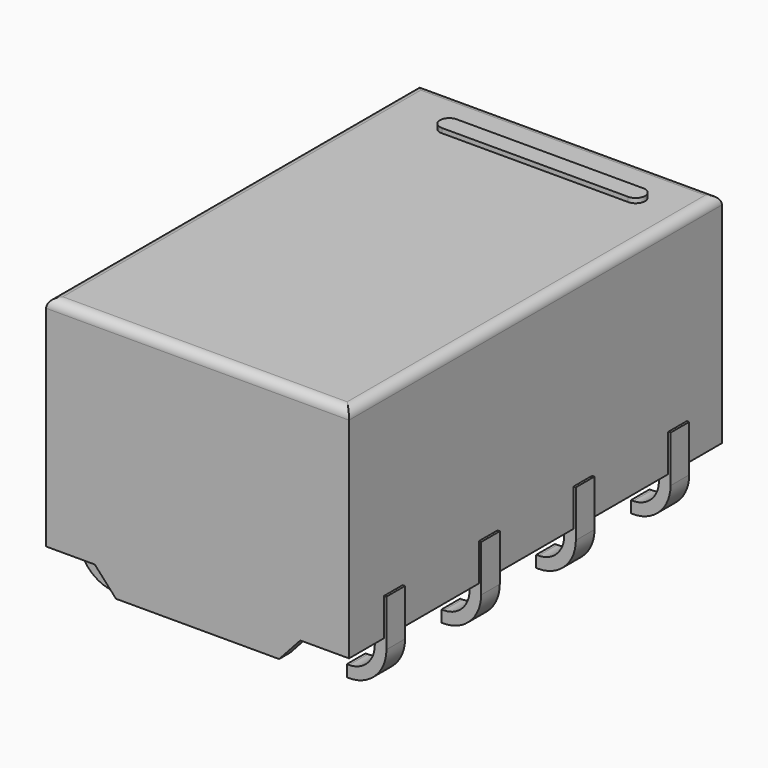
from build123d import *

# Parameters (mm, degrees)
SKETCH_W     = 10
SKETCH_H     = 6.5
PAD_DEPTH    = 4.7
FILLET_R     = 0.2
PAD010_DEPTH = 0.25
PAD012_DEPTH = 0.25
PAD007_DEPTH = 0.3
SKETCH008_W  = 4.5
SKETCH008_H  = 0.15
PAD006_DEPTH = 4
PAD013_DEPTH = 0.25
PAD011_DEPTH = 0.25
PAD014_DEPTH = 0.2
PAD008_DEPTH = 0.3


with BuildPart() as fillet_body:
    # Sketch → Pad (new body)
    with BuildSketch(Plane(origin=(0, 0, 1), x_dir=(0, -1, 0), z_dir=(0, 0, 1))):
        Rectangle(SKETCH_W, SKETCH_H)
    extrude(amount=PAD_DEPTH)

    # Fillet
    fillet_edges = [fillet_body.edges().sort_by_distance(p)[0] for p in [
        (-3.25, 0, 5.7),
        (0, -5, 5.7),
        (3.25, 0, 5.7),
        (0, 5, 5.7),
    ]]
    fillet(fillet_edges, radius=FILLET_R)


with BuildPart() as pad010:
    # Sketch011 → Pad010 (new body, symmetric)
    with BuildSketch(Plane.XZ.offset(1.27)):
        with BuildLine():
            Line((-3.3, 1.8), (-3.05, 1.8))
            Line((-3.05, 1.8), (-3.05, 0.8))
            ThreePointArc((-3.05, 0.8), (-2.888909, 0.411091), (-2.5, 0.25))
            Line((-2.45, 0.25), (-2.5, 0.25))
            Line((-2.45, 0), (-2.45, 0.25))
            Line((-2.45, 0), (-2.5, 0))
            ThreePointArc((-3.3, 0.8), (-3.065685, 0.234315), (-2.5, 0))
            Line((-3.3, 1.8), (-3.3, 0.8))
        make_face()
        with BuildLine():
            ThreePointArc((2.5, 0.25), (2.888909, 0.411091), (3.05, 0.8))
            Line((3.05, 1.8), (3.05, 0.8))
            Line((3.3, 1.8), (3.05, 1.8))
            Line((3.3, 0.8), (3.3, 1.8))
            ThreePointArc((2.500011, 0), (3.065689, 0.234318), (3.3, 0.8))
            Line((2.45, 0), (2.500011, 0))
            Line((2.45, 0.25), (2.45, 0))
            Line((2.5, 0.25), (2.45, 0.25))
        make_face()
    extrude(amount=PAD010_DEPTH, both=True)


with BuildPart() as pad012:
    # Sketch013 → Pad012 (new body, symmetric)
    with BuildSketch(Plane.XZ.offset(-3.81)):
        with BuildLine():
            Line((-3.3, 1.8), (-3.05, 1.8))
            Line((-3.05, 1.8), (-3.05, 0.8))
            ThreePointArc((-3.05, 0.8), (-2.888909, 0.411091), (-2.5, 0.25))
            Line((-2.45, 0.25), (-2.5, 0.25))
            Line((-2.45, 0), (-2.45, 0.25))
            Line((-2.45, 0), (-2.5, 0))
            ThreePointArc((-3.3, 0.8), (-3.065685, 0.234315), (-2.5, 0))
            Line((-3.3, 1.8), (-3.3, 0.8))
        make_face()
        with BuildLine():
            ThreePointArc((2.5, 0.25), (2.888909, 0.411091), (3.05, 0.8))
            Line((3.05, 1.8), (3.05, 0.8))
            Line((3.3, 1.8), (3.05, 1.8))
            Line((3.3, 0.8), (3.3, 1.8))
            ThreePointArc((2.500011, 0), (3.065689, 0.234318), (3.3, 0.8))
            Line((2.45, 0), (2.500011, 0))
            Line((2.45, 0.25), (2.45, 0))
            Line((2.5, 0.25), (2.45, 0.25))
        make_face()
    extrude(amount=PAD012_DEPTH, both=True)


with BuildPart() as pad007:
    # Sketch009 → Pad007 (new body)
    with BuildSketch(Plane.XZ.offset(5)):
        Polygon((-1.75, 0.5), (1.75, 0.5), (2.25, 1.05), (-2.25, 1.05), align=None)
    extrude(amount=-PAD007_DEPTH)


with BuildPart() as pad006:
    # Sketch008 → Pad006 (new body, symmetric)
    with BuildSketch(Plane.XZ):
        with Locations((0, 0.775)):
            Rectangle(SKETCH008_W, SKETCH008_H)
    extrude(amount=PAD006_DEPTH, both=True)


with BuildPart() as pad013:
    # Sketch014 → Pad013 (new body, symmetric)
    with BuildSketch(Plane.XZ.offset(3.81)):
        with BuildLine():
            Line((-3.3, 1.8), (-3.05, 1.8))
            Line((-3.05, 1.8), (-3.05, 0.8))
            ThreePointArc((-3.05, 0.8), (-2.888909, 0.411091), (-2.5, 0.25))
            Line((-2.45, 0.25), (-2.5, 0.25))
            Line((-2.45, 0), (-2.45, 0.25))
            Line((-2.45, 0), (-2.5, 0))
            ThreePointArc((-3.3, 0.8), (-3.065685, 0.234315), (-2.5, 0))
            Line((-3.3, 1.8), (-3.3, 0.8))
        make_face()
        with BuildLine():
            ThreePointArc((2.5, 0.25), (2.888909, 0.411091), (3.05, 0.8))
            Line((3.05, 1.8), (3.05, 0.8))
            Line((3.3, 1.8), (3.05, 1.8))
            Line((3.3, 0.8), (3.3, 1.8))
            ThreePointArc((2.500011, 0), (3.065689, 0.234318), (3.3, 0.8))
            Line((2.45, 0), (2.500011, 0))
            Line((2.45, 0.25), (2.45, 0))
            Line((2.5, 0.25), (2.45, 0.25))
        make_face()
    extrude(amount=PAD013_DEPTH, both=True)


with BuildPart() as pad011:
    # Sketch012 → Pad011 (new body, symmetric)
    with BuildSketch(Plane.XZ.offset(-1.27)):
        with BuildLine():
            Line((-3.3, 1.8), (-3.05, 1.8))
            Line((-3.05, 1.8), (-3.05, 0.8))
            ThreePointArc((-3.05, 0.8), (-2.888909, 0.411091), (-2.5, 0.25))
            Line((-2.45, 0.25), (-2.5, 0.25))
            Line((-2.45, 0), (-2.45, 0.25))
            Line((-2.45, 0), (-2.5, 0))
            ThreePointArc((-3.3, 0.8), (-3.065685, 0.234315), (-2.5, 0))
            Line((-3.3, 1.8), (-3.3, 0.8))
        make_face()
        with BuildLine():
            ThreePointArc((2.5, 0.25), (2.888909, 0.411091), (3.05, 0.8))
            Line((3.05, 1.8), (3.05, 0.8))
            Line((3.3, 1.8), (3.05, 1.8))
            Line((3.3, 0.8), (3.3, 1.8))
            ThreePointArc((2.500011, 0), (3.065689, 0.234318), (3.3, 0.8))
            Line((2.45, 0), (2.500011, 0))
            Line((2.45, 0.25), (2.45, 0))
            Line((2.5, 0.25), (2.45, 0.25))
        make_face()
    extrude(amount=PAD011_DEPTH, both=True)


with BuildPart() as pad014:
    # Sketch001 → Pad014 (new body)
    with BuildSketch(Plane(origin=(0, 0, 5.6), x_dir=(0, -1, 0), z_dir=(0, 0, 1))):
        with BuildLine():
            Line((-3.8, -1.8), (-3.8, 2.2))
            ThreePointArc((-3.8, 2.2), (-4, 2.4), (-4.2, 2.2))
            Line((-4.2, 2.2), (-4.2, -1.8))
            ThreePointArc((-4.2, -1.8), (-4, -2), (-3.8, -1.8))
        make_face()
    extrude(amount=PAD014_DEPTH)


with BuildPart() as obj1:
    # Sketch010 → Pad008 (new body)
    with BuildSketch(Plane.XZ.offset(-5)):
        Polygon((-1.75, 0.5), (1.75, 0.5), (2.25, 1.05), (-2.25, 1.05), align=None)
    extrude(amount=PAD008_DEPTH)

    add(fillet_body.part)
    add(pad010.part)
    add(pad012.part)
    add(pad007.part)
    add(pad006.part)
    add(pad013.part)
    add(pad011.part)
    add(pad014.part)


solid = obj1.part
